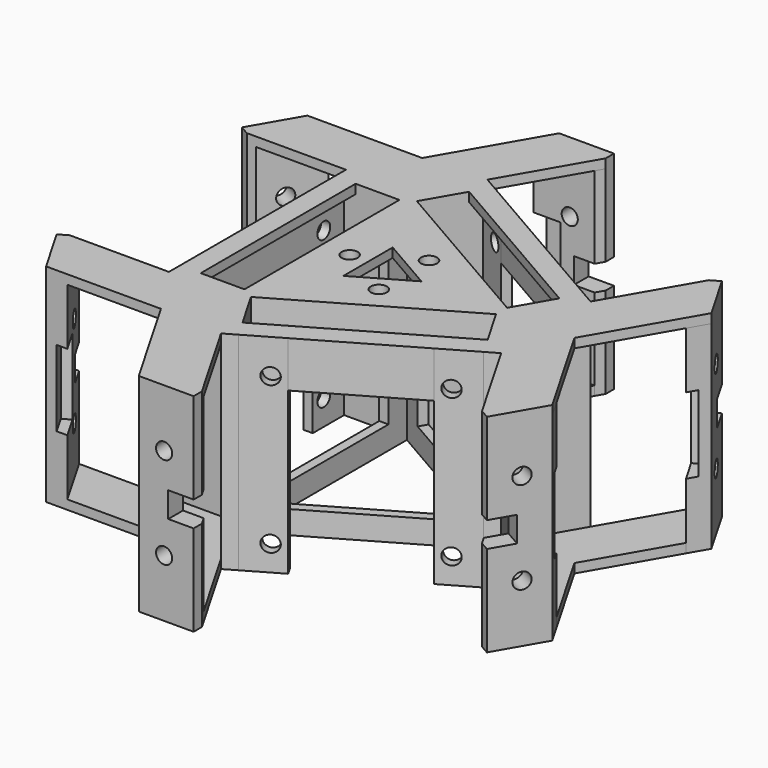
from build123d import *

# Parameters (mm, degrees)
PAD_DEPTH       = 45
SKETCH001_W     = 31.0717967697
SKETCH001_H     = 35
POCKET_DEPTH    = 2
SKETCH002_W     = 31.0717967697
SKETCH002_H     = 35
POCKET001_DEPTH = 2
SKETCH003_W     = 31.0717967697
SKETCH003_H     = 35
POCKET002_DEPTH = 2
SKETCH004_W     = 25
SKETCH004_H     = 10
PAD001_DEPTH    = 2
SKETCH005_W     = 25
SKETCH005_H     = 10
PAD002_DEPTH    = 2
SKETCH006_W     = 25
SKETCH006_H     = 10
PAD003_DEPTH    = 2
SKETCH007_W     = 2.5
SKETCH007_H     = 42
PAD004_DEPTH    = 2
SKETCH008_R     = 1.75
PAD005_DEPTH    = 2
SKETCH009_R     = 1.75
POCKET003_DEPTH = 2
SKETCH010_R     = 1.75
POCKET004_DEPTH = 2
SKETCH011_R     = 1.75
POCKET005_DEPTH = 2
PAD006_DEPTH    = 2
PAD007_DEPTH    = 43
PAD008_DEPTH    = 2
SKETCH015_R     = 1.75
SKETCH015_W     = 5.5
SKETCH015_H     = 5.5
POCKET006_DEPTH = 5
SKETCH016_R     = 1.75
SKETCH016_W     = 5.5
SKETCH016_H     = 5.5
POCKET007_DEPTH = 5
SKETCH017_R     = 1.75
SKETCH017_W     = 5.5
SKETCH017_H     = 5.5
POCKET008_DEPTH = 5
SKETCH018_R     = 1.75
SKETCH018_W     = 5.5
SKETCH018_H     = 5.5
POCKET009_DEPTH = 5
SKETCH019_R     = 1.75
SKETCH019_W     = 5.5
SKETCH019_H     = 5.5
POCKET010_DEPTH = 5
SKETCH020_R     = 1.75
SKETCH020_W     = 5.5
SKETCH020_H     = 5.5
POCKET011_DEPTH = 5
SKETCH021_W     = 5.8093947872
SKETCH021_H     = 16.5
POCKET012_DEPTH = 2
SKETCH022_W     = 5.8094014287
SKETCH022_H     = 16.5
POCKET013_DEPTH = 2
SKETCH023_W     = 5.8094010768
SKETCH023_H     = 16.5
POCKET014_DEPTH = 2
SKETCH024_W     = 5.8094012072
SKETCH024_H     = 16.5
POCKET015_DEPTH = 2
SKETCH025_W     = 5.8094010768
SKETCH025_H     = 16.5
POCKET016_DEPTH = 2
SKETCH026_W     = 5.8093944842
SKETCH026_H     = 16.5
POCKET017_DEPTH = 2


with BuildPart() as part:
    # Sketch → Pad (new body)
    with BuildSketch(Plane.XY):
        Polygon((25.1147367097, 1.5), (-11.2583302492, 22.5), (-5.2583302492, 32.8923048454), (2.102885683, 28.6423048454), (3.102885683, 30.374355653), (-4.2583302492, 34.624355653), (-6.8564064606, 36.124355653), (-13.8564064606, 24), (-27.8564064606, 24), (-27.8564064606, 21), (-27.8564064606, 12.5), (-25.8564064606, 12.5), (-25.8564064606, 21), (-13.8564064606, 21), (-13.8564064606, -21), (-25.8564064606, -21), (-25.8564064606, -12.5), (-27.8564064606, -12.5), (-27.8564064606, -21), (-27.8564064606, -24), (-13.8564064606, -24), (-6.8564064606, -36.124355653), (-4.2583302492, -34.624355653), (3.102885683, -30.374355653), (2.102885683, -28.6423048454), (-5.2583302492, -32.8923048454), (-11.2583302492, -22.5), (25.1147367097, -1.5), (31.1147367097, -11.8923048454), (23.7535207776, -16.1423048454), (24.7535207776, -17.874355653), (32.1147367097, -13.624355653), (34.7128129211, -12.124355653), (27.7128129211, 0), (34.7128129211, 12.124355653), (32.1147367097, 13.624355653), (24.7535207776, 17.874355653), (23.7535207776, 16.1423048454), (31.1147367097, 11.8923048454), align=None)
        Polygon((23.7128129211, 0), (-11.8564064606, 20.5358983849), (-11.8564064606, -20.5358983849), align=None, mode=Mode.SUBTRACT)
    extrude(amount=PAD_DEPTH)

    # Sketch001 (on Face41 of Pad) → Pocket (cut)
    with BuildSketch(Plane.YZ.offset(-11.8564064606)):
        with Locations((0, 22.5)):
            Rectangle(SKETCH001_W, SKETCH001_H)
    extrude(amount=-POCKET_DEPTH, mode=Mode.SUBTRACT)

    # Sketch002 (on Face44 of Pocket) → Pocket001 (cut)
    with BuildSketch(Plane(origin=(5.9282032303, 10.2679491924, 0), x_dir=(0.8660254038, -0.5, 0), z_dir=(-0.5, -0.8660254038, 0))):
        with Locations((0, 22.5)):
            Rectangle(SKETCH002_W, SKETCH002_H)
    extrude(amount=-POCKET001_DEPTH, mode=Mode.SUBTRACT)

    # Sketch003 (on Face42 of Pocket001) → Pocket002 (cut)
    with BuildSketch(Plane(origin=(5.9282032303, -10.2679491924, 0), x_dir=(-0.8660254038, -0.5, 0), z_dir=(-0.5, 0.8660254038, 0))):
        with Locations((0, 22.5)):
            Rectangle(SKETCH003_W, SKETCH003_H)
    extrude(amount=-POCKET002_DEPTH, mode=Mode.SUBTRACT)

    # Sketch004 (on Face20 of Pocket002) → Pad001 (join)
    with BuildSketch(Plane(origin=(-27.8564064606, 0, 0), x_dir=(0, -1, 0), z_dir=(-1, 0, 0))):
        with Locations((0, 40)):
            Rectangle(SKETCH004_W, SKETCH004_H)
    extrude(amount=-PAD001_DEPTH)

    # Sketch005 (on Face33 of Pad001) → Pad002 (join)
    with BuildSketch(Plane(origin=(13.9282032303, -24.124355653, 0), x_dir=(0.8660254038, 0.5, 0), z_dir=(0.5, -0.8660254038, 0))):
        with Locations((0, 40)):
            Rectangle(SKETCH005_W, SKETCH005_H)
    extrude(amount=-PAD002_DEPTH)

    # Sketch006 (on Face7 of Pad002) → Pad003 (join)
    with BuildSketch(Plane(origin=(13.9282032303, 24.124355653, 0), x_dir=(-0.8660254038, 0.5, 0), z_dir=(0.5, 0.8660254038, 0))):
        with Locations((0, 40)):
            Rectangle(SKETCH006_W, SKETCH006_H)
    extrude(amount=-PAD003_DEPTH)

    # Sketch007 (on Face5 of Pad003) → Pad004 (join)
    with BuildSketch(Plane.XY.offset(45)):
        with Locations((-24.6064064606, 0)):
            Rectangle(SKETCH007_W, SKETCH007_H)
        Polygon((-5.2583302492, 32.8923048454), (31.1147367097, 11.8923048454), (29.8647367108, 9.7272413377), (-6.5083302492, 30.727241336), align=None)
        Polygon((31.1147367097, -11.8923048454), (29.8647367097, -9.727241336), (-6.5083302492, -30.727241336), (-5.2583302492, -32.8923048454), align=None)
    extrude(amount=-PAD004_DEPTH)

    # Sketch008 (on Face5 of Pad004) → Pad005 (join)
    with BuildSketch(Plane.XY.offset(45)):
        Polygon((-11.8564064606, 20.5358983849), (23.7128129211, 0), (-11.8564064606, -20.5358983849), align=None)
        with Locations((-7.8564064606, 0)):
            Circle(SKETCH008_R, mode=Mode.SUBTRACT)
        with Locations((3.9282032303, 6.8038475773)):
            Circle(SKETCH008_R, mode=Mode.SUBTRACT)
        with Locations((3.9282032303, -6.8038475773)):
            Circle(SKETCH008_R, mode=Mode.SUBTRACT)
        Polygon((7.7128129211, 0), (-3.8564064606, 6.6794919243), (-3.8564064606, -6.6794919243), align=None, mode=Mode.SUBTRACT)
    extrude(amount=-PAD005_DEPTH)

    # Sketch009 (on Face33 of Pad005) → Pocket003 (cut)
    with BuildSketch(Plane(origin=(13.9282032303, -24.124355653, 0), x_dir=(0.8660254038, 0.5, 0), z_dir=(0.5, -0.8660254038, 0))):
        with Locations((-15.5, 37.5)):
            Circle(SKETCH009_R)
        with Locations((15.5, 37.5)):
            Circle(SKETCH009_R)
        with Locations((15.5, 5.5)):
            Circle(SKETCH009_R)
        with Locations((-15.5, 5.5)):
            Circle(SKETCH009_R)
    extrude(amount=-POCKET003_DEPTH, mode=Mode.SUBTRACT)

    # Sketch010 (on Face7 of Pocket003) → Pocket004 (cut)
    with BuildSketch(Plane(origin=(13.9282032303, 24.124355653, 0), x_dir=(-0.8660254038, 0.5, 0), z_dir=(0.5, 0.8660254038, 0))):
        with Locations((-15.5, 37.5)):
            Circle(SKETCH010_R)
        with Locations((15.5, 37.5)):
            Circle(SKETCH010_R)
        with Locations((15.5, 5.5)):
            Circle(SKETCH010_R)
        with Locations((-15.5, 5.5)):
            Circle(SKETCH010_R)
    extrude(amount=-POCKET004_DEPTH, mode=Mode.SUBTRACT)

    # Sketch011 (on Face20 of Pocket004) → Pocket005 (cut)
    with BuildSketch(Plane(origin=(-27.8564064606, 0, 0), x_dir=(0, -1, 0), z_dir=(-1, 0, 0))):
        with Locations((-15.5, 37.5)):
            Circle(SKETCH011_R)
        with Locations((15.5, 37.5)):
            Circle(SKETCH011_R)
        with Locations((15.5, 5.5)):
            Circle(SKETCH011_R)
        with Locations((-15.5, 5.5)):
            Circle(SKETCH011_R)
    extrude(amount=-POCKET005_DEPTH, mode=Mode.SUBTRACT)

    # Sketch012 (on Face5 of Pocket005) → Pad006 (join)
    with BuildSketch(Plane.XY.offset(45)):
        Polygon((-13.8564064606, 24), (3.897114317, 54.75), (3.897114345, 56.9999999515), (-8, 57.0000000995), (-20.4544828818, 35.4282029663), (-45.3634475585, 35.4282029663), (-51.3120053227, 25.1250002572), (-49.3634480157, 24), align=None)
        Polygon((27.7128129211, 0), (45.4663336987, 30.75), (47.4148909673, 31.875), (53.3634478462, 21.5717966719), (40.9089652308, 0), (53.3634536686, -21.5718067565), (47.4148852947, -31.875), (45.4663336987, -30.75), align=None)
        Polygon((-13.8564064606, -24), (-49.3634480157, -24), (-51.3120025208, -25.1249954042), (-45.363456186, -35.4282079474), (-20.4544799485, -35.4282079474), (-8, -57), (3.897114317, -57), (3.897114317, -54.75), align=None)
    extrude(amount=-PAD006_DEPTH)

    # Sketch013 (on Face84 of Pad006) → Pad007 (join)
    with BuildSketch(Plane(origin=(0, 0, 43), x_dir=(1, 0, 0), z_dir=(0, 0, -1))):
        Polygon((-8, 57), (3.897114317, 57), (3.897114317, 54.75), (2.8867513459, 53), (-10.3094010768, 53), align=None)
        Polygon((47.4148852947, 31.875), (53.3634536686, 21.5718067565), (51.05405424, 17.5718096111), (44.4559686674, 28.9999964317), (45.4663336987, 30.75), align=None)
        Polygon((47.4148909673, -31.875), (53.3634478462, -21.5717966719), (51.0540467369, -17.5717966154), (44.4559707684, -29.0000000706), (45.4663336987, -30.75), align=None)
        Polygon((3.897114345, -56.9999999515), (-8, -57.0000000995), (-10.3094010768, -53.0000000995), (2.8867514034, -53.0000000995), (3.897114317, -54.75), align=None)
        Polygon((-51.3120053227, -25.1250002572), (-49.3634480157, -24), (-47.3427222935, -24), (-40.744645229, -35.4282029663), (-45.3634475585, -35.4282029663), align=None)
        Polygon((-51.3120025208, 25.1249954042), (-49.3634480157, 24), (-47.3427181426, 24), (-40.7446571773, 35.4282079474), (-45.363456186, 35.4282079474), align=None)
    extrude(amount=PAD007_DEPTH)

    # Sketch014 (on Face155 of Pad007) → Pad008 (join)
    with BuildSketch(Plane(origin=(0, 0, 0), x_dir=(1, 0, 0), z_dir=(0, 0, -1))):
        Polygon((-40.7446571773, 35.4282079474), (-20.4544799485, 35.4282079474), (-10.3094010768, 53), (2.8867513459, 53), (-13.8564064606, 24), (-47.3427181426, 24), align=None)
        Polygon((44.4559686674, 28.9999964317), (51.05405424, 17.5718096111), (40.9089652308, 0), (51.0540467369, -17.5717966154), (44.4559707684, -29.0000000706), (27.7128129211, 0), align=None)
        Polygon((-47.3427222935, -24), (-13.8564064606, -24), (2.8867514034, -53.0000000995), (-10.3094010768, -53.0000000995), (-20.4544828818, -35.4282029663), (-40.744645229, -35.4282029663), align=None)
    extrude(amount=-PAD008_DEPTH)

    # Sketch015 (on Face173 of Pad008) → Pocket006 (cut)
    with BuildSketch(Plane.XZ.offset(57)):
        with Locations((-2.5, 32.5)):
            Circle(SKETCH015_R)
        with Locations((-2.5, 12.5)):
            Circle(SKETCH015_R)
        with Locations((1.147114317, 22.5)):
            Rectangle(SKETCH015_W, SKETCH015_H)
    extrude(amount=-POCKET006_DEPTH, mode=Mode.SUBTRACT)

    # Sketch016 (on Face79 of Pocket006) → Pocket007 (cut)
    with BuildSketch(Plane(origin=(49.3634127865, -28.5000610186, 0), x_dir=(0.5000010705, 0.8660247857, 0), z_dir=(0.8660247857, -0.5000010705, 0))):
        with Locations((2.500064636, 12.5)):
            Circle(SKETCH016_R)
        with Locations((2.500064636, 32.5)):
            Circle(SKETCH016_R)
        with Locations((-1.14704664, 22.5)):
            Rectangle(SKETCH016_W, SKETCH016_H)
    extrude(amount=-POCKET007_DEPTH, mode=Mode.SUBTRACT)

    # Sketch017 (on Face88 of Pocket007) → Pocket008 (cut)
    with BuildSketch(Plane(origin=(49.3634487129, 28.4999987925, 0), x_dir=(-0.4999999788, 0.866025416, 0), z_dir=(0.866025416, 0.4999999788, 0))):
        with Locations((-2.4999986057, 32.5)):
            Circle(SKETCH017_R)
        with Locations((-2.4999986057, 12.5)):
            Circle(SKETCH017_R)
        with Locations((1.1471156563, 22.5)):
            Rectangle(SKETCH017_W, SKETCH017_H)
    extrude(amount=-POCKET008_DEPTH, mode=Mode.SUBTRACT)

    # Sketch018 (on Face176 of Pocket008) → Pocket009 (cut)
    with BuildSketch(Plane(origin=(7.091e-07, 57, 0), x_dir=(-1, 1.24e-08, 0), z_dir=(1.24e-08, 1, 0))):
        with Locations((2.5000007091, 32.5)):
            Circle(SKETCH018_R)
        with Locations((2.5000007091, 12.5)):
            Circle(SKETCH018_R)
        with Locations((-1.1471136359, 22.5)):
            Rectangle(SKETCH018_W, SKETCH018_H)
    extrude(amount=-POCKET009_DEPTH, mode=Mode.SUBTRACT)

    # Sketch019 (on Face182 of Pocket009) → Pocket010 (cut)
    with BuildSketch(Plane(origin=(-49.3634461348, 28.5000032579, 0), x_dir=(-0.5000000572, -0.8660253708, 0), z_dir=(-0.8660253708, 0.5000000572, 0))):
        with Locations((-2.4999962381, 32.5)):
            Circle(SKETCH019_R)
        with Locations((-2.4999962381, 12.5)):
            Circle(SKETCH019_R)
        with Locations((1.1471179304, 22.5)):
            Rectangle(SKETCH019_W, SKETCH019_H)
    extrude(amount=-POCKET010_DEPTH, mode=Mode.SUBTRACT)

    # Sketch020 (on Face193 of Pocket010) → Pocket011 (cut)
    with BuildSketch(Plane(origin=(-49.3634816253, -28.4999417864, 0), x_dir=(0.4999989787, -0.8660259934, 0), z_dir=(-0.8660259934, -0.4999989787, 0))):
        with Locations((2.5000672193, 32.5)):
            Circle(SKETCH020_R)
        with Locations((2.5000672193, 12.5)):
            Circle(SKETCH020_R)
        with Locations((-1.1470497512, 22.5)):
            Rectangle(SKETCH020_W, SKETCH020_H)
    extrude(amount=-POCKET011_DEPTH, mode=Mode.SUBTRACT)

    # Sketch021 (on Face213 of Pocket011) → Pocket012 (cut)
    with BuildSketch(Plane(origin=(-45.8993776516, -26.4999458715, 0), x_dir=(-0.4999989787, 0.8660259934, 0), z_dir=(0.8660259934, 0.4999989787, 0))):
        with Locations((-7.4047646129, 22.5)):
            Rectangle(SKETCH021_W, SKETCH021_H)
    extrude(amount=-POCKET012_DEPTH, mode=Mode.SUBTRACT)

    # Sketch022 (on Face202 of Pocket012) → Pocket013 (cut)
    with BuildSketch(Plane(origin=(-45.8993446516, 26.5000030292, 0), x_dir=(0.5000000572, 0.8660253708, 0), z_dir=(0.8660253708, -0.5000000572, 0))):
        with Locations((7.4046969525, 22.5)):
            Rectangle(SKETCH022_W, SKETCH022_H)
    extrude(amount=-POCKET013_DEPTH, mode=Mode.SUBTRACT)

    # Sketch023 (on Face201 of Pocket013) → Pocket014 (cut)
    with BuildSketch(Plane.XZ.offset(-53.0000000995)):
        with Locations((-7.4047005384, 22.5)):
            Rectangle(SKETCH023_W, SKETCH023_H)
    extrude(amount=-POCKET014_DEPTH, mode=Mode.SUBTRACT)

    # Sketch024 (on Face9 of Pocket014) → Pocket015 (cut)
    with BuildSketch(Plane(origin=(45.8993470488, 26.4999988772, 0), x_dir=(0.4999999788, -0.866025416, 0), z_dir=(-0.866025416, -0.4999999788, 0))):
        with Locations((7.4046992093, 22.5)):
            Rectangle(SKETCH024_W, SKETCH024_H)
    extrude(amount=-POCKET015_DEPTH, mode=Mode.SUBTRACT)

    # Sketch025 (on Face224 of Pocket015) → Pocket016 (cut)
    with BuildSketch(Plane(origin=(0, -53, 0), x_dir=(-1, 0, 0), z_dir=(0, 1, 0))):
        with Locations((7.4047005384, 22.5)):
            Rectangle(SKETCH025_W, SKETCH025_H)
    extrude(amount=-POCKET016_DEPTH, mode=Mode.SUBTRACT)

    # Sketch026 (on Face6 of Pocket016) → Pocket017 (cut)
    with BuildSketch(Plane(origin=(45.8993136436, -26.5000567366, 0), x_dir=(-0.5000010705, -0.8660247857, 0), z_dir=(-0.8660247857, 0.5000010705, 0))):
        with Locations((-7.404761878, 22.5)):
            Rectangle(SKETCH026_W, SKETCH026_H)
    extrude(amount=-POCKET017_DEPTH, mode=Mode.SUBTRACT)


solid = part.part
